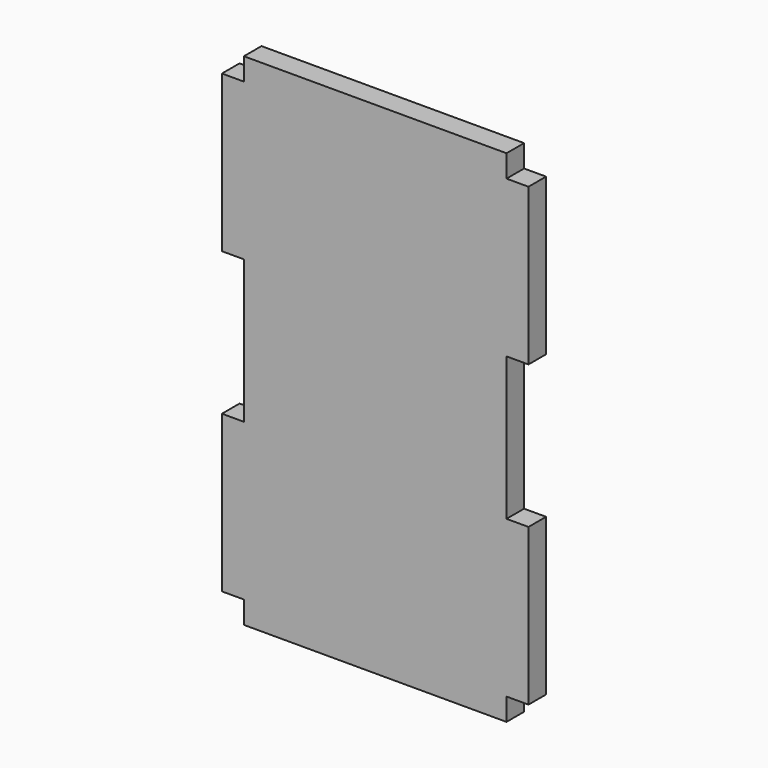
from build123d import *

# Parameters (mm, degrees)
F0_W     = 5.9
F0_H     = 42
F1_DEPTH = 5.9


with BuildPart() as f1:
    # F0 (on Front) → F1 (new body)
    with BuildSketch(Plane.XZ):
        Polygon((35.25, 61.2), (35.25, 67.2), (-35.25, 67.2), (-35.25, 61.2), (-35.25, 19.2), (-35.25, -19.2), (-35.25, -61.2), (-35.25, -67.2), (35.25, -67.2), (35.25, -61.2), (35.25, -19.2), (35.25, 19.2), align=None)
        with Locations((38.2, 40.2)):
            Rectangle(F0_W, F0_H)
        with Locations((-38.2, 40.2)):
            Rectangle(F0_W, F0_H)
        with Locations((38.2, -40.2)):
            Rectangle(F0_W, F0_H)
        with Locations((-38.2, -40.2)):
            Rectangle(F0_W, F0_H)
    extrude(amount=F1_DEPTH)


solid = f1.part
